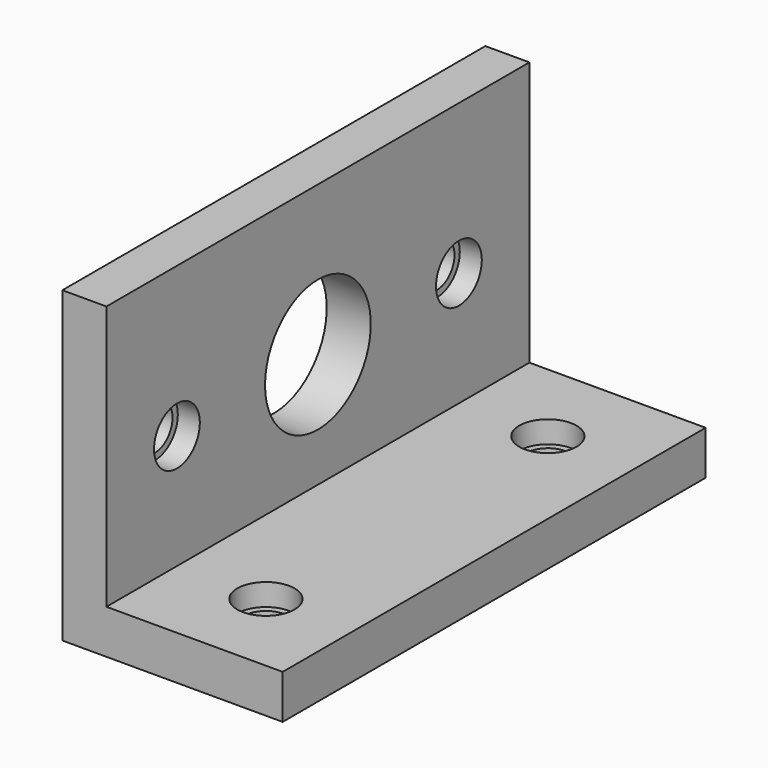
from build123d import *

# Parameters (mm, degrees)
F1_DEPTH             = 76.2
F5_D                 = 6.35
F5_CBORE_D           = 8.255
F5_CBORE_DEPTH       = 3.175
F5_ON_F4_D           = 6.35
F5_ON_F4_CBORE_D     = 8.255
F5_ON_F4_CBORE_DEPTH = 3.175
F6_D                 = 19.05


with BuildPart() as f1:
    # F0 (on Front) → F1 (new body)
    with BuildSketch(Plane.XZ):
        Polygon((0, 44.45), (0, 0), (31.75, 0), (31.75, 6.35), (6.35, 6.35), (6.35, 44.45), align=None)
    extrude(amount=F1_DEPTH)

    # F5 (through all)
    with Locations(Plane.YZ.offset(6.35)):
        with Locations((-63.5, 22.86), (-12.7, 22.86)):
            CounterBoreHole(F5_D / 2, F5_CBORE_D / 2, F5_CBORE_DEPTH)

    # F5 on F4 (through all)
    with Locations(Plane.XY.offset(6.35)):
        with Locations((19.1747965182, -12.7), (19.1747965182, -63.5006131711)):
            CounterBoreHole(F5_ON_F4_D / 2, F5_ON_F4_CBORE_D / 2, F5_ON_F4_CBORE_DEPTH)

    # F6 (through all)
    with Locations(Plane.YZ.offset(6.35)):
        with Locations((-38.1, 22.86)):
            Hole(F6_D / 2)


solid = f1.part
